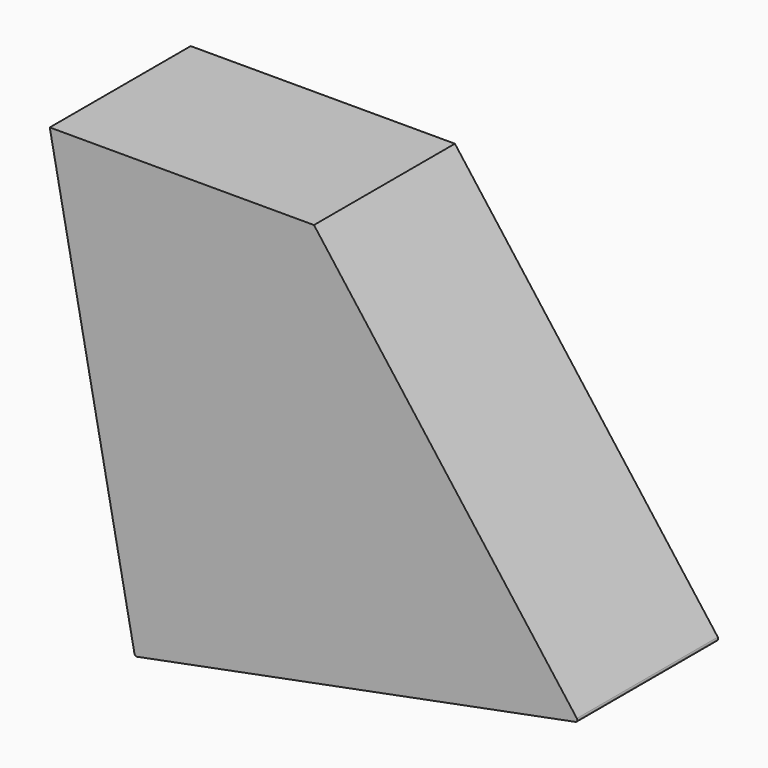
from build123d import *

# Parameters (mm, degrees)
F1_DEPTH = 508


with BuildPart() as f1:
    # F0 (on Front) → F1 (new body)
    with BuildSketch(Plane.XZ):
        with BuildLine():
            ThreePointArc((-508.468338, -841.325435), (-505.78588, -845.378186), (-501.023368, -846.34713))
            Line((-501.023368, -846.34713), (763.527564, -600.543329))
            ThreePointArc((763.527564, -600.543329), (768.244163, -596.585633), (767.387262, -590.488471))
            Line((767.387262, -590.488471), (9.197902, 415.662793))
            Line((9.197902, 415.662793), (-752.802098, 415.662793))
            Line((-752.802098, 415.662793), (-508.468338, -841.325435))
        make_face()
    extrude(amount=F1_DEPTH)


solid = f1.part
